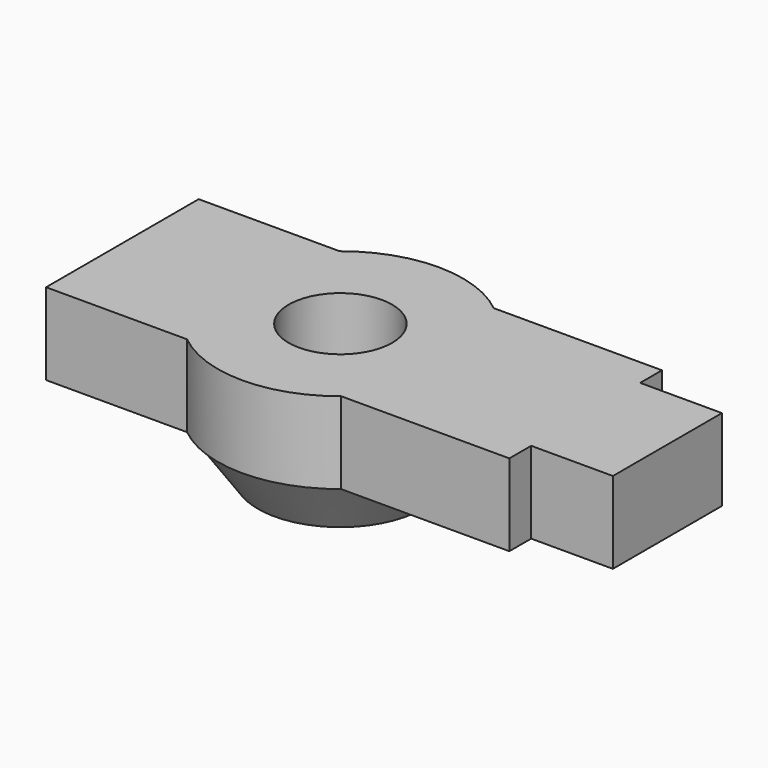
from build123d import *

# Parameters (mm, degrees)
SKETCH146_R  = 1.9
PAD114_DEPTH = 3


with BuildPart() as innerbearingrace:
    # Sketch144 → Revolution005 (revolve)
    with BuildSketch(Plane(origin=(50, 160, -10), x_dir=(1, 0, 0), z_dir=(0, -1, 0))):
        Polygon((4.423355, 2), (3.02294, 0), (1.8, 0), (1.8, 2), align=None)
    revolve(axis=Axis((50, 160, -10), (0, 0, 1)))


with BuildPart() as steeringrod_long:
    # Sketch146 → Pad114 (new body)
    with BuildSketch(Plane(origin=(50, 160, -8), x_dir=(1, 0, 0), z_dir=(0, 0, 1))):
        with BuildLine():
            Line((9, 3.5), (2.828427, 3.5))
            ThreePointArc((2.828427, 3.5), (0, 4.5), (-2.828427, 3.5))
            Line((-2.828427, 3.5), (-8, 3.5))
            Line((-8, 3.5), (-8, -3.5))
            Line((-8, -3.5), (-2.828427, -3.5))
            ThreePointArc((-2.828427, -3.5), (0, -4.5), (2.828427, -3.5))
            Line((2.828427, -3.5), (9, -3.5))
            Line((9, -2.5), (9, -3.5))
            Line((12, -2.5), (9, -2.5))
            Line((12, 2.5), (12, -2.5))
            Line((9, 2.5), (12, 2.5))
            Line((9, 3.5), (9, 2.5))
        make_face()
        Circle(SKETCH146_R, mode=Mode.SUBTRACT)
    extrude(amount=PAD114_DEPTH)

    # Fusion004020022: union InnerBearingRace
    add(innerbearingrace.part)


solid = steeringrod_long.part
